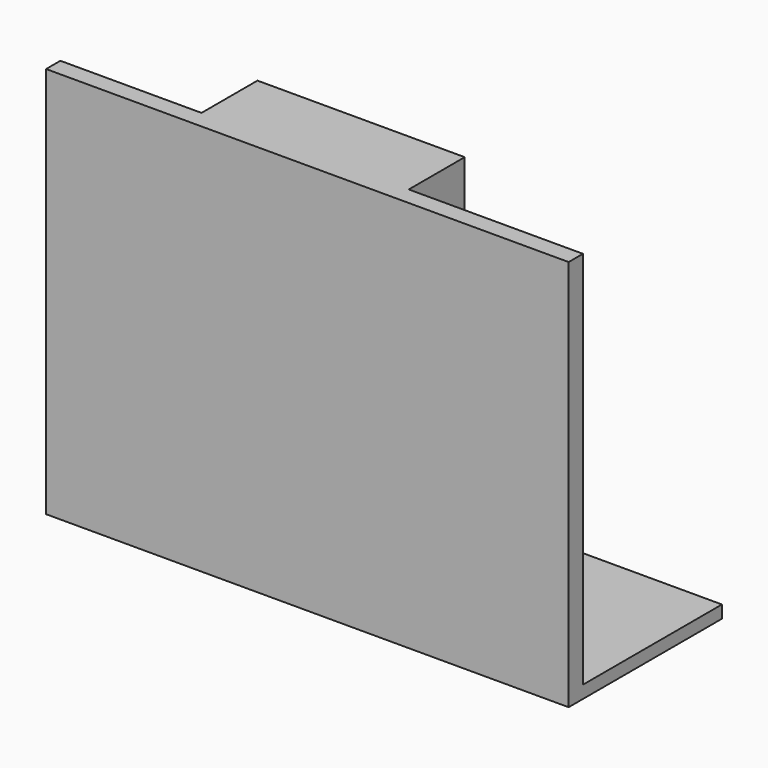
from build123d import *

# Parameters (mm, degrees)
F1_DEPTH = 4572
F2_W     = 6096
F2_H     = 146.801412
F3_DEPTH = 2235.2


with BuildPart() as f1:
    # F0 (on Top) → F1 (new body)
    with BuildSketch(Plane.XY):
        Polygon((-2937.036125, -1132.541629), (-2937.036125, -1341.12106), (3158.963875, -1341.12106), (3158.963875, -1132.541629), (1126.963875, -1132.541629), (1126.963875, -316.566629), (-1290.811325, -316.566629), (-1290.811325, -1132.541629), align=None)
    extrude(amount=F1_DEPTH)

    # F2 (on face) → F3 (join)
    with BuildSketch(Plane.XZ.offset(1341.12106)):
        with Locations((110.963875, 73.400706)):
            Rectangle(F2_W, F2_H)
    extrude(amount=-F3_DEPTH)


solid = f1.part
